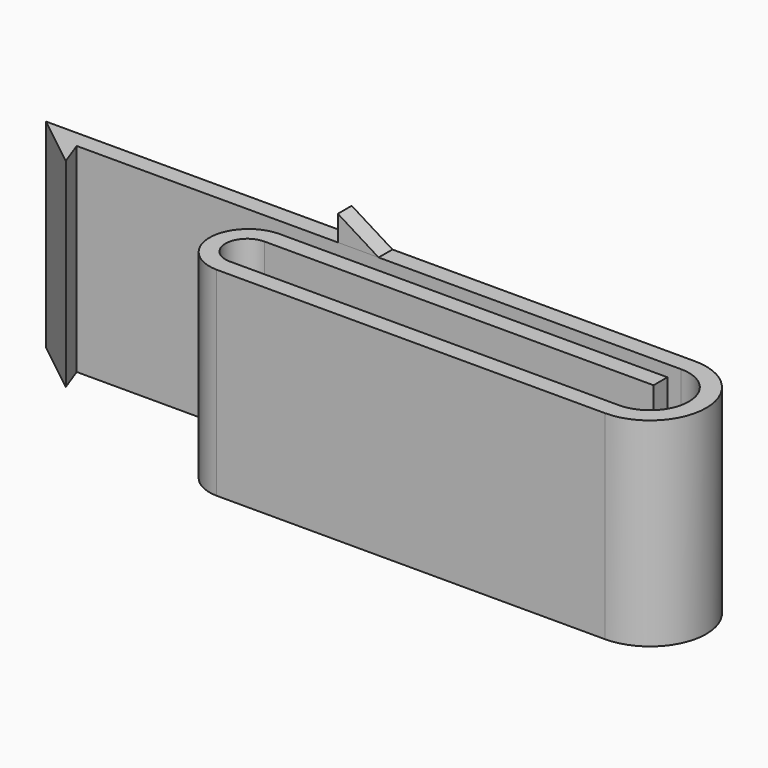
from build123d import *

# Parameters (mm, degrees)
F1_DEPTH = 23
F3_DEPTH = 2


with BuildPart() as f1:
    # F0 (on Top) → F1 (new body)
    with BuildSketch(Plane.XY):
        with BuildLine():
            Line((-34.155931, 1.526963), (-35.217397, 4.421777))
            Line((-35.217397, 4.421777), (34.646763, 4.421777))
            ThreePointArc((34.646763, 4.421777), (39.146763, -0.078223), (34.646763, -4.578223))
            Line((34.646763, -4.578223), (-10.353237, -4.578223))
            ThreePointArc((-10.353237, -4.578223), (-12.811103, -2.057289), (-10.311014, 0.421777))
            Line((-10.311014, 0.421777), (34.656327, 0.421777))
            Line((34.656327, 0.421777), (34.656327, 2.421777))
            Line((34.656327, 2.421777), (-10.160469, 2.421777))
            ThreePointArc((-10.160469, 2.421777), (-14.660775, -2.026413), (-10.265303, -6.578223))
            Line((-10.265303, -6.578223), (34.646763, -6.578223))
            ThreePointArc((34.646763, -6.578223), (41.146763, -0.078223), (34.646763, 6.421777))
            Line((34.646763, 6.421777), (-40.353237, 6.421777))
            Line((-40.353237, 6.421777), (-34.155931, 1.526963))
        make_face()
    extrude(amount=-F1_DEPTH)


with BuildPart() as f3:
    # F2 (on face) → F3 (new body)
    with BuildSketch(Plane(origin=(0, 6.421777, 0), x_dir=(-1, 0, 0), z_dir=(0, 1, 0))):
        Polygon((0.318564, 0), (5.030424, 0), (5.030424, 2.918699), align=None)
    extrude(amount=-F3_DEPTH)


solid = Compound([f1.part, f3.part])
